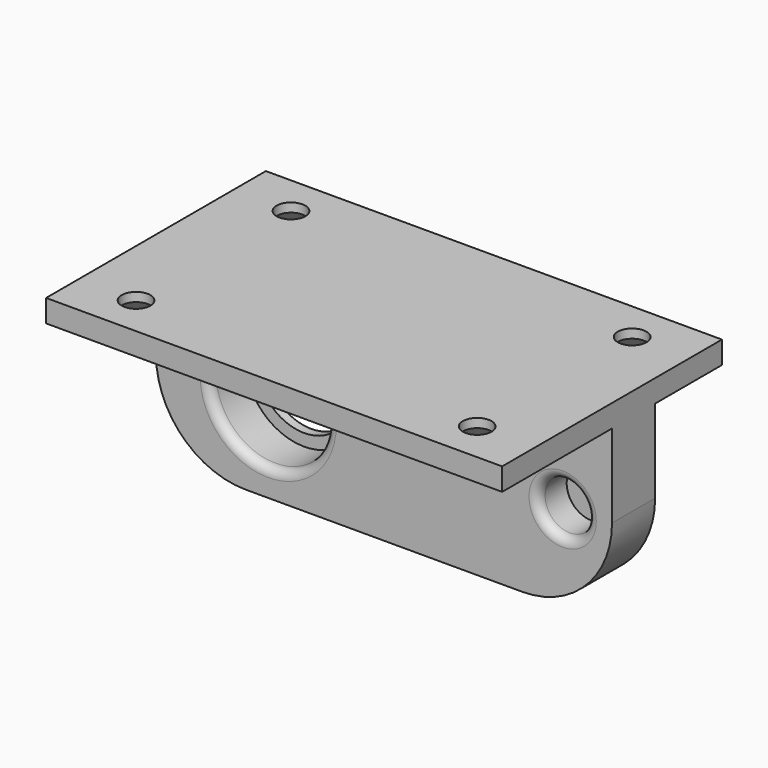
from build123d import *

# Parameters (mm, degrees)
SKETCH084_W     = 50.8
SKETCH084_H     = 30.6
PAD021_DEPTH    = 2.5
SKETCH085_R     = 1.6
POCKET071_DEPTH = 2.501
SKETCH086_W     = 50.8
SKETCH086_H     = 6
PAD022_DEPTH    = 19.27
SKETCH087_R     = 6.585
POCKET072_DEPTH = 5
SKETCH088_R     = 2.75
POCKET073_DEPTH = 4
SKETCH089_R     = 5.25
POCKET074_DEPTH = 10.301
CHAMFER013_SIZE = 1.5
FILLET002_R     = 1
FILLET003_R     = 10


with BuildPart() as part:
    # Sketch084 → Pad021 (new body)
    with BuildSketch(Plane.XY):
        Rectangle(SKETCH084_W, SKETCH084_H)
    extrude(amount=PAD021_DEPTH)

    # Sketch085 (on Face5 of Pad021) → Pocket071 (cut, through all)
    with BuildSketch(Plane(origin=(0, 0, 0), x_dir=(1, 0, 0), z_dir=(0, 0, -1))):
        with Locations((-19, 10.775)):
            Circle(SKETCH085_R)
        with Locations((19, 10.775)):
            Circle(SKETCH085_R)
        with Locations((19, -10.8)):
            Circle(SKETCH085_R)
        with Locations((-19, -10.8)):
            Circle(SKETCH085_R)
    extrude(amount=-POCKET071_DEPTH, mode=Mode.SUBTRACT)

    # Sketch086 (on Face4 of Pocket071) → Pad022 (join)
    with BuildSketch(Plane(origin=(0, 0, 0), x_dir=(1, 0, 0), z_dir=(0, 0, -1))):
        with Locations((0, -3)):
            Rectangle(SKETCH086_W, SKETCH086_H)
    extrude(amount=PAD022_DEPTH)

    # Sketch087 (on Face12 of Pad022) → Pocket072 (cut)
    with BuildSketch(Plane.XZ):
        with Locations((-12.9, -9.685)):
            Circle(SKETCH087_R)
    extrude(amount=-POCKET072_DEPTH, mode=Mode.SUBTRACT)

    # Sketch088 (on Face12 of Pocket072) → Pocket073 (cut)
    with BuildSketch(Plane.XZ):
        with Locations((19.9, -9.685)):
            Circle(SKETCH088_R)
    extrude(amount=-POCKET073_DEPTH, mode=Mode.SUBTRACT)

    # Sketch089 (on Face20 of Pocket073) → Pocket074 (cut, through all)
    with BuildSketch(Plane.XZ.offset(-5)):
        with Locations((-12.9, -9.685)):
            Circle(SKETCH089_R)
    extrude(amount=-POCKET074_DEPTH, mode=Mode.SUBTRACT)

    # Chamfer013
    chamfer013_edges = [part.edges().sort_by_distance(p)[0] for p in [
        (-20.6, -10.775, 0),
        (17.4, -10.775, 0),
        (17.4, 10.8, 0),
        (-20.6, 10.8, 0),
    ]]
    chamfer(chamfer013_edges, length=CHAMFER013_SIZE)

    # Fillet002
    fillet002_edges = [part.edges().sort_by_distance(p)[0] for p in [
        (-19.485, 0, -9.685),
        (17.15, 0, -9.685),
    ]]
    fillet(fillet002_edges, radius=FILLET002_R)

    # Fillet003
    fillet003_edges = [part.edges().sort_by_distance(p)[0] for p in [
        (-25.4, 3, -19.27),
        (25.4, 3, -19.27),
    ]]
    fillet(fillet003_edges, radius=FILLET003_R)


solid = part.part
